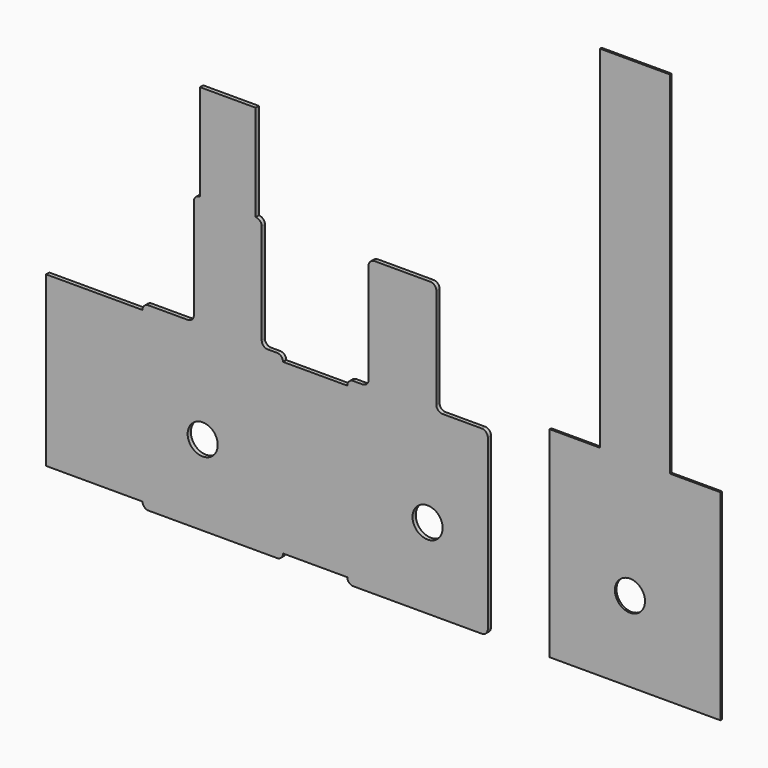
from build123d import *

# Parameters (mm, degrees)
F0_R      = 7.5
F1_DEPTH  = 1
F2_R      = 7.5
F2_W      = 19
F2_H      = 48
F2_H_2    = 20
F3_DEPTH  = 2
F4_R      = 3
F5_W      = 2
F5_H      = 84
F6_DEPTH  = 16
F8_W      = 2
F8_H      = 84
F9_DEPTH  = 48
F10_W     = 27.787754
F10_H     = 2
F11_DEPTH = 48


with BuildPart() as f1:
    # F0 (on Front) → F1 (new body)
    with BuildSketch(Plane.XZ):
        Polygon((45, 60), (20, 60), (20, 235), (-15, 235), (-15, 60), (-40, 60), (-40, -40), (45, -40), align=None)
        Circle(F0_R, mode=Mode.SUBTRACT)
    extrude(amount=F1_DEPTH)


with BuildPart() as f3:
    # F2 (on Front) → F3 (new body)
    with BuildSketch(Plane.XZ):
        Polygon((-103, 50), (-103, 30), (-122, 30), (-122, 50), (-129.393877, 50), (-140, 50), (-140, -40), (-70, -40), (-70, 50), (-95.606123, 50), align=None)
        with Locations((-100, 0)):
            Circle(F2_R, mode=Mode.SUBTRACT)
        Polygon((-103, 98), (-103, 50), (-95.606123, 50), (-95.606123, 106), (-129.393877, 106), (-129.393877, 50), (-122, 50), (-122, 98), align=None)
        with Locations((-112.5, 74)):
            Rectangle(F2_W, F2_H)
        with Locations((-112.5, 40)):
            Rectangle(F2_W, F2_H_2)
    extrude(amount=F3_DEPTH)

    # F4
    f4_edges = [f3.edges().sort_by_distance(p)[0] for p in [
        (-129.393877, -1, 50),
        (-129.393877, -1, 106),
        (-95.606123, -1, 106),
        (-95.606123, -1, 50),
        (-70, -1, 50),
        (-140, -1, 50),
        (-140, -1, -40),
        (-70, -1, -40),
    ]]
    fillet(f4_edges, radius=F4_R)

    # F5 (on face) → F6 (join)
    with BuildSketch(Plane(origin=(-140, 0, 0), x_dir=(0, -1, 0), z_dir=(-1, 0, 0))):
        with Locations((1, 5)):
            Rectangle(F5_W, F5_H)
    extrude(amount=F6_DEPTH)

    # F7: F3 across face


with BuildPart() as f3_1:
    add(f3.part)
    add(f3.part.mirror(Plane(origin=(-156, -1, 5), x_dir=(0, -1, 0), z_dir=(-1, 0, 0))))

    # F8 (on face) → F9 (join)
    with BuildSketch(Plane(origin=(-242, 0, 0), x_dir=(0, -1, 0), z_dir=(-1, 0, 0))):
        with Locations((1, 5)):
            Rectangle(F8_W, F8_H)
    extrude(amount=F9_DEPTH)

    # F10 (on face) → F11 (join)
    with BuildSketch(Plane.XY.offset(106)):
        with Locations((-199.5, -1)):
            Rectangle(F10_W, F10_H)
    extrude(amount=F11_DEPTH)


solid = Compound([f1.part, f3_1.part])
